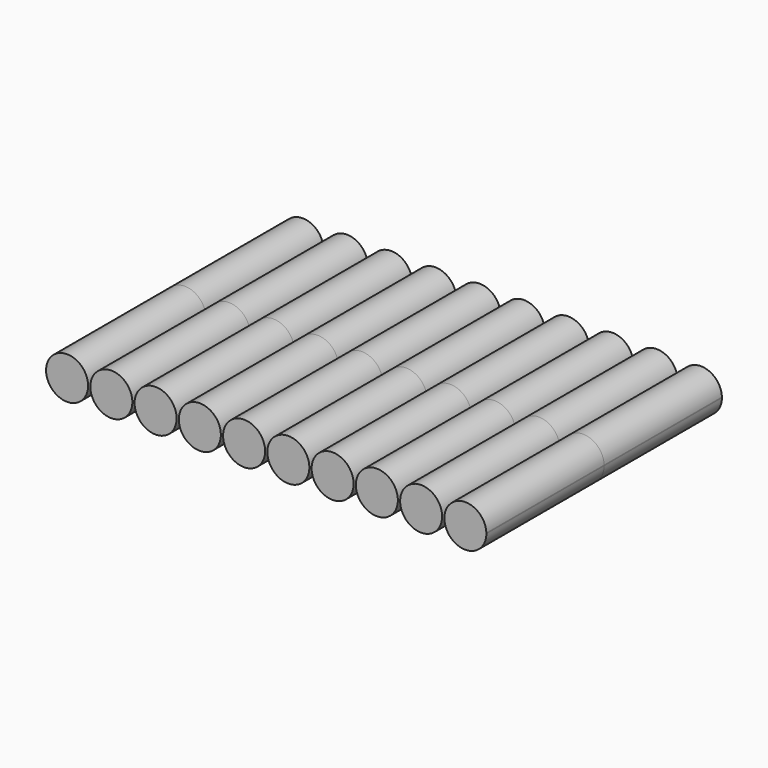
from build123d import *

# Parameters (mm, degrees)
F1_DEPTH = 65.2


with BuildPart() as f1:
    # F0 (on Front) → F1 (new body)
    with BuildSketch(Plane.XZ):
        with BuildLine():
            Line((-61.9339610934, 11.3), (-43.3339610934, 11.3))
            ThreePointArc((-43.3339610934, 11.3), (-52.6339610934, 20.6), (-61.9339610934, 11.3))
        make_face()
        with BuildLine():
            ThreePointArc((-61.9339610934, 11.3), (-52.6339610934, 2), (-43.3339610934, 11.3))
            Line((-43.3339610934, 11.3), (-61.9339610934, 11.3))
        make_face()
    extrude(amount=F1_DEPTH)


with BuildPart() as f1b:
    # F0 (on Front) → F1, piece 2 (new body)
    with BuildSketch(Plane.XZ):
        with BuildLine():
            ThreePointArc((-23.7339610934, 11.3), (-33.0339610934, 20.6), (-42.3339610934, 11.3))
            Line((-42.3339610934, 11.3), (-23.7339610934, 11.3))
        make_face()
        with BuildLine():
            Line((-23.7339610934, 11.3), (-42.3339610934, 11.3))
            ThreePointArc((-42.3339610934, 11.3), (-33.0339610934, 2), (-23.7339610934, 11.3))
        make_face()
    extrude(amount=F1_DEPTH)


with BuildPart() as f1c:
    # F0 (on Front) → F1, piece 3 (new body)
    with BuildSketch(Plane.XZ):
        with BuildLine():
            ThreePointArc((-4.1339610934, 11.3), (-13.4339610934, 20.6), (-22.7339610934, 11.3))
            Line((-22.7339610934, 11.3), (-4.1339610934, 11.3))
        make_face()
        with BuildLine():
            Line((-4.1339610934, 11.3), (-22.7339610934, 11.3))
            ThreePointArc((-22.7339610934, 11.3), (-13.4339610934, 2), (-4.1339610934, 11.3))
        make_face()
    extrude(amount=F1_DEPTH)


with BuildPart() as f1d:
    # F0 (on Front) → F1, piece 4 (new body)
    with BuildSketch(Plane.XZ):
        with BuildLine():
            ThreePointArc((15.4660389066, 11.3), (6.1660389066, 20.6), (-3.1339610934, 11.3))
            Line((-3.1339610934, 11.3), (15.4660389066, 11.3))
        make_face()
        with BuildLine():
            Line((15.4660389066, 11.3), (-3.1339610934, 11.3))
            ThreePointArc((-3.1339610934, 11.3), (6.1660389066, 2), (15.4660389066, 11.3))
        make_face()
    extrude(amount=F1_DEPTH)


with BuildPart() as f1e:
    # F0 (on Front) → F1, piece 5 (new body)
    with BuildSketch(Plane.XZ):
        with BuildLine():
            ThreePointArc((35.0660389066, 11.3), (25.7660389066, 20.6), (16.4660389066, 11.3))
            Line((16.4660389066, 11.3), (35.0660389066, 11.3))
        make_face()
        with BuildLine():
            Line((35.0660389066, 11.3), (16.4660389066, 11.3))
            ThreePointArc((16.4660389066, 11.3), (25.7660389066, 2), (35.0660389066, 11.3))
        make_face()
    extrude(amount=F1_DEPTH)


with BuildPart() as f1f:
    # F0 (on Front) → F1, piece 6 (new body)
    with BuildSketch(Plane.XZ):
        with BuildLine():
            Line((54.6660389066, 11.3), (36.0660389066, 11.3))
            ThreePointArc((36.0660389066, 11.3), (45.3660389066, 2), (54.6660389066, 11.3))
        make_face()
        with BuildLine():
            ThreePointArc((54.6660389066, 11.3), (45.3660389066, 20.6), (36.0660389066, 11.3))
            Line((36.0660389066, 11.3), (54.6660389066, 11.3))
        make_face()
    extrude(amount=F1_DEPTH)


with BuildPart() as f1g:
    # F0 (on Front) → F1, piece 7 (new body)
    with BuildSketch(Plane.XZ):
        with BuildLine():
            Line((74.2660389066, 11.3), (55.6660389066, 11.3))
            ThreePointArc((55.6660389066, 11.3), (64.9660389066, 2), (74.2660389066, 11.3))
        make_face()
        with BuildLine():
            ThreePointArc((74.2660389066, 11.3), (64.9660389066, 20.6), (55.6660389066, 11.3))
            Line((55.6660389066, 11.3), (74.2660389066, 11.3))
        make_face()
    extrude(amount=F1_DEPTH)


with BuildPart() as f1h:
    # F0 (on Front) → F1, piece 8 (new body)
    with BuildSketch(Plane.XZ):
        with BuildLine():
            ThreePointArc((75.2660389066, 11.3), (84.5660389066, 2), (93.8660389066, 11.3))
            Line((93.8660389066, 11.3), (75.2660389066, 11.3))
        make_face()
        with BuildLine():
            Line((75.2660389066, 11.3), (93.8660389066, 11.3))
            ThreePointArc((93.8660389066, 11.3), (84.5660389066, 20.6), (75.2660389066, 11.3))
        make_face()
    extrude(amount=F1_DEPTH)


with BuildPart() as f1i:
    # F0 (on Front) → F1, piece 9 (new body)
    with BuildSketch(Plane.XZ):
        with BuildLine():
            ThreePointArc((94.8660389066, 11.3), (104.1660389066, 2), (113.4660389066, 11.3))
            Line((113.4660389066, 11.3), (94.8660389066, 11.3))
        make_face()
        with BuildLine():
            Line((94.8660389066, 11.3), (113.4660389066, 11.3))
            ThreePointArc((113.4660389066, 11.3), (104.1660389066, 20.6), (94.8660389066, 11.3))
        make_face()
    extrude(amount=F1_DEPTH)


with BuildPart() as f1j:
    # F0 (on Front) → F1, piece 10 (new body)
    with BuildSketch(Plane.XZ):
        with BuildLine():
            ThreePointArc((133.0636610872, 10.9947052806), (133.0624079115, 11.1473732123), (133.0586487222, 11.3))
            Line((133.0586487222, 11.3), (114.4686734522, 11.3))
            ThreePointArc((114.4686734522, 11.3), (123.6109931555, 1.6959584563), (133.0636610872, 10.9947052806))
        make_face()
        with BuildLine():
            Line((114.4686734522, 11.3), (133.0586487222, 11.3))
            ThreePointArc((133.0586487222, 11.3), (123.7636610872, 20.2947052806), (114.4686734522, 11.3))
        make_face()
    extrude(amount=F1_DEPTH)


with BuildPart() as f2_1:
    # F2: instance of F1
    add(f1.part.mirror(Plane.XZ))


with BuildPart() as f2_2:
    # F2: instance of F1b
    add(f1b.part.mirror(Plane.XZ))


with BuildPart() as f2_3:
    # F2: instance of F1c
    add(f1c.part.mirror(Plane.XZ))


with BuildPart() as f2_4:
    # F2: instance of F1d
    add(f1d.part.mirror(Plane.XZ))


with BuildPart() as f2_5:
    # F2: instance of F1e
    add(f1e.part.mirror(Plane.XZ))


with BuildPart() as f2_6:
    # F2: instance of F1f
    add(f1f.part.mirror(Plane.XZ))


with BuildPart() as f2_7:
    # F2: instance of F1g
    add(f1g.part.mirror(Plane.XZ))


with BuildPart() as f2_8:
    # F2: instance of F1h
    add(f1h.part.mirror(Plane.XZ))


with BuildPart() as f2_9:
    # F2: instance of F1i
    add(f1i.part.mirror(Plane.XZ))


with BuildPart() as f2_10:
    # F2: instance of F1j
    add(f1j.part.mirror(Plane.XZ))


solid = Compound([f1.part, f1b.part, f1c.part, f1d.part, f1e.part, f1f.part, f1g.part, f1h.part, f1i.part, f1j.part, f2_1.part, f2_2.part, f2_3.part, f2_4.part, f2_5.part, f2_6.part, f2_7.part, f2_8.part, f2_9.part, f2_10.part])
